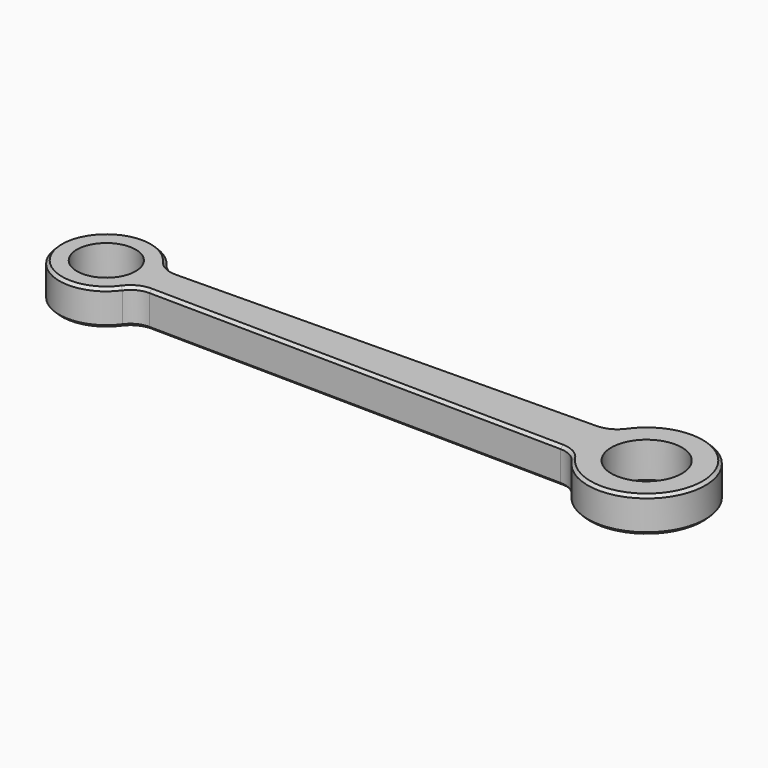
from build123d import *

# Parameters (mm, degrees)
F1_DEPTH = 4.7752
F2_R     = 3.96875
F3_DEPTH = 4.7762
F4_R     = 4.7625
F5_DEPTH = 4.7762
F6_SIZE  = 0.381
F7_SIZE  = 0.381


with BuildPart() as f1:
    # F0 (on Top) → F1 (new body)
    with BuildSketch(Plane.XY):
        with BuildLine():
            ThreePointArc((20.216247, -1.591479), (21.680928, -1.971354), (22.803448, -2.986018))
            ThreePointArc((22.803448, -2.986018), (37.312981, 1.381884), (22.897449, 6.050669))
            ThreePointArc((22.897449, 6.050669), (21.783346, 5.074773), (20.347779, 4.710432))
            Line((20.347779, 4.710432), (-35.892979, 3.971447))
            ThreePointArc((-35.892979, 3.971447), (-37.359656, 4.308902), (-38.506159, 5.283865))
            ThreePointArc((-38.506159, 5.283865), (-49.999089, 1.559265), (-38.506178, -2.165395))
            ThreePointArc((-38.506178, -2.165395), (-37.359647, -1.190426), (-35.892939, -0.852992))
            Line((-35.892939, -0.852992), (20.216247, -1.591479))
        make_face()
    extrude(amount=F1_DEPTH)

    # F2 (on face) → F3 (cut, through all)
    with BuildSketch(Plane.XY.offset(4.7752)):
        with Locations((-43.649089, 1.559248)):
            Circle(F2_R)
    extrude(amount=-F3_DEPTH, mode=Mode.SUBTRACT)

    # F4 (on face) → F5 (cut, through all)
    with BuildSketch(Plane.XY.offset(4.7752)):
        with Locations((29.375911, 1.464447)):
            Circle(F4_R)
    extrude(amount=-F5_DEPTH, mode=Mode.SUBTRACT)

    # F6
    f6_edges = [f1.edges().sort_by_distance(p)[0] for p in [
        (37.312981, 1.381884, 4.7752),
        (21.783346, 5.074773, 4.7752),
        (-7.7726, 4.34094, 4.7752),
        (21.680928, -1.971354, 4.7752),
        (-7.838346, -1.222235, 4.7752),
        (-37.359656, 4.308902, 4.7752),
        (-49.999089, 1.559265, 4.7752),
        (-37.359647, -1.190426, 4.7752),
    ]]
    chamfer(f6_edges, length=F6_SIZE)

    # F7
    f7_edges = [f1.edges().sort_by_distance(p)[0] for p in [
        (-49.999089, 1.559265, 0),
        (-37.359647, -1.190426, 0),
        (-37.359656, 4.308902, 0),
        (-7.838346, -1.222235, 0),
        (-7.7726, 4.34094, 0),
        (21.680928, -1.971354, 0),
        (37.312981, 1.381884, 0),
        (21.783346, 5.074773, 0),
    ]]
    chamfer(f7_edges, length=F7_SIZE)


solid = f1.part
